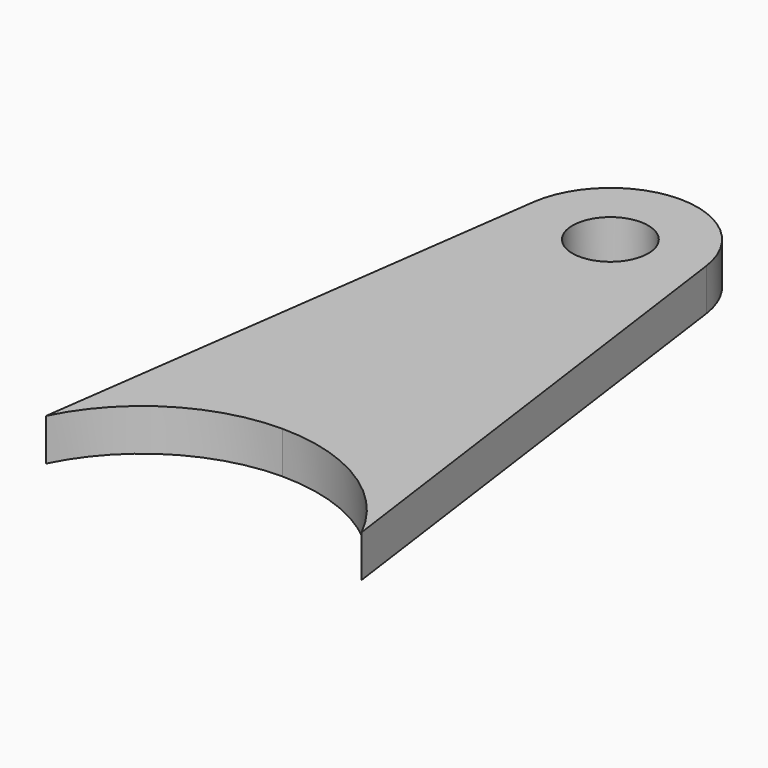
from build123d import *

# Parameters (mm, degrees)
F1_DEPTH = 4.55422
F3_D     = 8.2042


with BuildPart() as f1:
    # F0 (on Top) → F1 (new body)
    with BuildSketch(Plane.XY):
        with BuildLine():
            ThreePointArc((9.3738793, 21.0438950621), (6.2195299703, 26.8892652438), (0, 29.2207281332))
            ThreePointArc((0, 29.2207281332), (-6.2195299703, 26.8892652438), (-9.3738793, 21.0438950621))
            Line((-9.3738793, 21.0438950621), (-17.102509737, -35.3499041706))
            ThreePointArc((-17.102509737, -35.3499041706), (-10.0761220315, -27.57369839), (0, -24.6907718668))
            ThreePointArc((0, -24.6907718668), (10.0761220315, -27.57369839), (17.102509737, -35.3499041706))
            Line((17.102509737, -35.3499041706), (9.3738793, 21.0438950621))
        make_face()
    extrude(amount=F1_DEPTH)

    # F3 (through all)
    with Locations(Plane.XY.offset(4.55422)):
        with Locations((0, 19.7592281332)):
            Hole(F3_D / 2)


solid = f1.part
